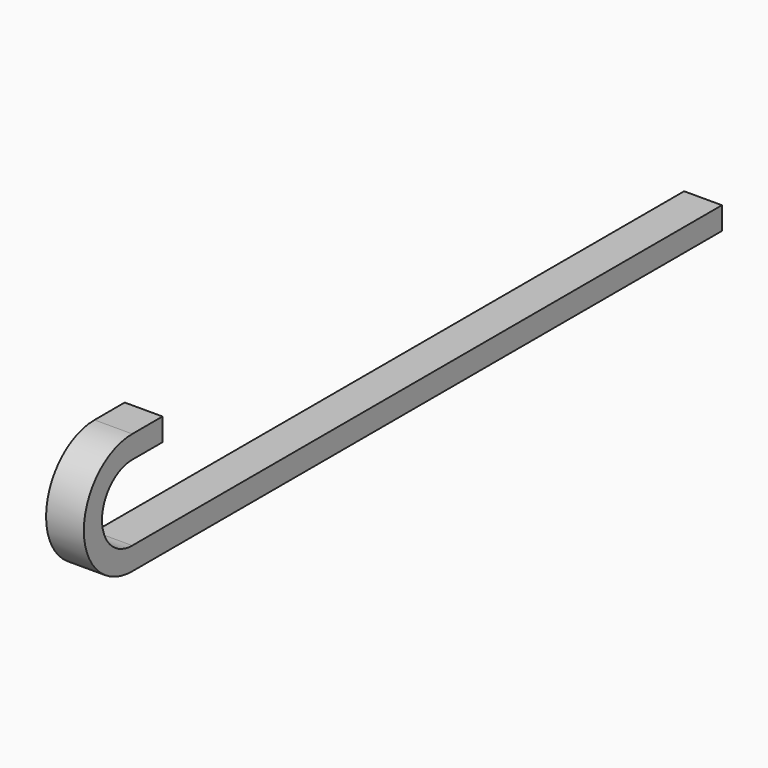
from build123d import *

# Parameters (mm, degrees)
F1_DEPTH = 20


with BuildPart() as f1:
    # F0 (on Right) → F1 (new body)
    with BuildSketch(Plane.YZ):
        with BuildLine():
            Line((-390, 0), (0, 0))
            Line((0, 0), (0, 12))
            Line((0, 12), (-390, 12))
            ThreePointArc((-390, 12), (-410, 32), (-390, 52))
            Line((-390, 52), (-370, 52))
            Line((-370, 52), (-370, 64))
            Line((-370, 64), (-390, 64))
            ThreePointArc((-390, 64), (-422, 32), (-390, 0))
        make_face()
    extrude(amount=-F1_DEPTH)


solid = f1.part
